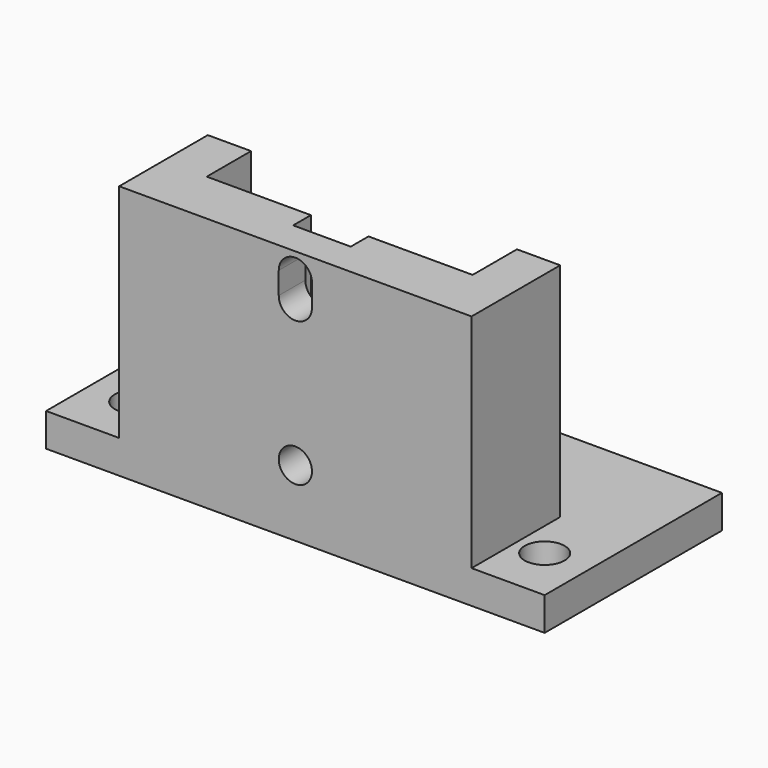
from build123d import *

# Parameters (mm, degrees)
SKETCH002_R  = 1.5
PAD003_DEPTH = 5
PAD002_DEPTH = 2
SKETCH_W     = 45
SKETCH_H     = 20
SKETCH_R     = 1.8
PAD_DEPTH    = 3
PAD001_DEPTH = 20


with BuildPart() as mount:
    # Sketch002 → Pad003 (new body)
    with BuildSketch(Plane.XZ.offset(10)):
        with Locations((0, 6)):
            Circle(SKETCH002_R)
        with BuildLine():
            ThreePointArc((1.5, 21), (0, 22.5), (-1.5, 21))
            Line((-1.5, 21), (-1.5, 19))
            ThreePointArc((-1.5, 19), (0, 17.5), (1.5, 19))
            Line((1.5, 21), (1.5, 19))
        make_face()
    extrude(amount=-PAD003_DEPTH)


with BuildPart() as cutblock:
    # Sketch003 → Pad002 (new body)
    with BuildSketch(Plane(origin=(0, -5, 0), x_dir=(-1, 0, 0), z_dir=(0, 1, 0))):
        Polygon((-1.5, 3.401924), (1.5, 3.401924), (3, 6), (1.5, 8.598076), (-1.5, 8.598076), (-3, 6), align=None)
        Polygon((2.598075, 16.499999), (2.598075, 23), (0, 24.499999), (-2.598075, 23), (-2.598075, 16.499999), (0, 15), align=None)
    extrude(amount=-PAD002_DEPTH)

    # Fusion001: union Mount
    add(mount.part)


with BuildPart() as base:
    # Sketch → Pad (new body)
    with BuildSketch(Plane.XY):
        Rectangle(SKETCH_W, SKETCH_H)
        with Locations((-6, 5)):
            Circle(SKETCH_R, mode=Mode.SUBTRACT)
        with Locations((6, 5)):
            Circle(SKETCH_R, mode=Mode.SUBTRACT)
        with Locations((-18.5, -5)):
            Circle(SKETCH_R, mode=Mode.SUBTRACT)
        with Locations((18.5, -5)):
            Circle(SKETCH_R, mode=Mode.SUBTRACT)
    extrude(amount=PAD_DEPTH)


with BuildPart() as final:
    # Sketch001 → Pad001 (new body)
    with BuildSketch(Plane.XY.offset(3)):
        Polygon((-12, 0), (-15.90274, 0), (-15.90274, -10), (15.90274, -10), (15.90274, 0), (12, 0), (12, -5), (-12, -5), align=None)
    extrude(amount=PAD001_DEPTH)

    # Fusion: union Base
    add(base.part)

    # Cut: cut CutBlock
    add(cutblock.part, mode=Mode.SUBTRACT)


solid = final.part
